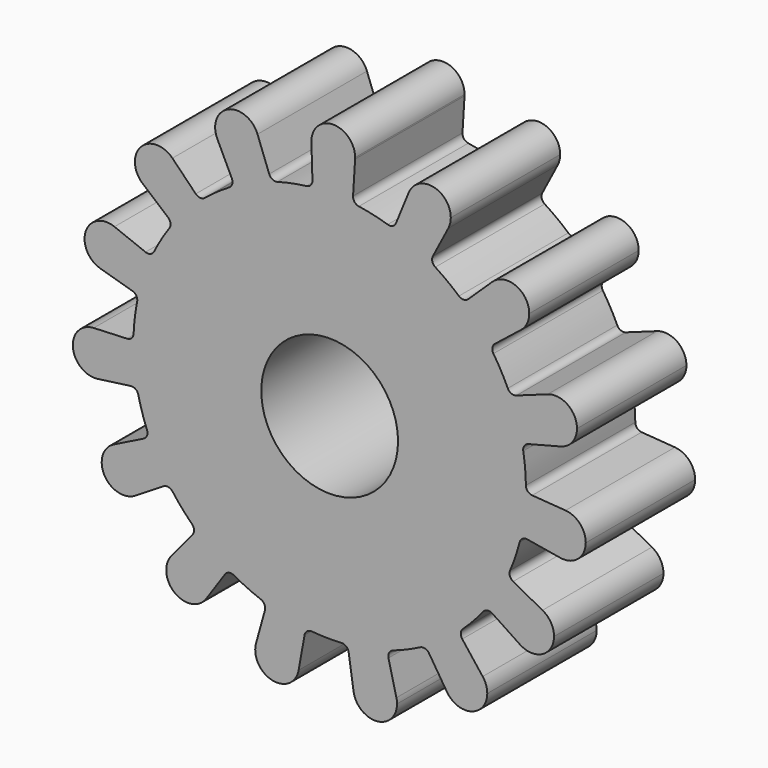
from build123d import *

# Parameters (mm, degrees)
F0_R     = 5
F1_DEPTH = 10


with BuildPart() as f1:
    # F0 (on Front) → F1 (new body)
    with BuildSketch(Plane.XZ):
        with BuildLine():
            ThreePointArc((13.88936, -3.606687), (14.234374, -1.817992), (14.35, 0))
            ThreePointArc((14.35, 0), (14.349647, 0.100694), (14.348587, 0.201382))
            ThreePointArc((14.348587, 0.201382), (14.29266, 1.281551), (14.155533, 2.354439))
            ThreePointArc((14.155533, 2.354439), (13.713882, 4.225157), (13.026177, 6.020068))
            ThreePointArc((13.026177, 6.020068), (12.535741, 6.984104), (11.974086, 7.908461))
            ThreePointArc((11.974086, 7.908461), (10.809728, 9.437811), (9.451422, 10.797829))
            ThreePointArc((9.451422, 10.797829), (8.611278, 11.479041), (7.722211, 12.095038))
            ThreePointArc((7.722211, 12.095038), (6.036474, 13.018582), (4.242431, 13.708548))
            ThreePointArc((4.242431, 13.708548), (3.197847, 13.989148), (2.135096, 14.190274))
            ThreePointArc((2.135096, 14.190274), (0.219459, 14.348322), (-1.700115, 14.248934))
            ThreePointArc((-1.700115, 14.248934), (-2.76852, 14.080405), (-3.821197, 13.831882))
            ThreePointArc((-3.821197, 13.831882), (-5.635502, 13.197106), (-7.348696, 12.32555))
            ThreePointArc((-7.348696, 12.32555), (-8.256186, 11.737031), (-9.116771, 11.081832))
            ThreePointArc((-9.116771, 11.081832), (-10.516034, 9.763991), (-11.72662, 8.270966))
            ThreePointArc((-11.72662, 8.270966), (-12.316282, 7.364218), (-12.835971, 6.415632))
            ThreePointArc((-12.835971, 6.415632), (-13.578248, 4.642593), (-14.076906, 2.786257))
            ThreePointArc((-14.076906, 2.786257), (-14.24678, 1.718065), (-14.335716, 0.640112))
            ThreePointArc((-14.335716, 0.640112), (-14.29266, -1.281551), (-13.993166, -3.18022))
            ThreePointArc((-13.993166, -3.18022), (-13.713882, -4.225157), (-13.356685, -5.24609))
            ThreePointArc((-13.356685, -5.24609), (-12.535741, -6.984104), (-11.489881, -8.596809))
            ThreePointArc((-11.489881, -8.596809), (-10.809728, -9.437811), (-10.068162, -10.225195))
            ThreePointArc((-10.068162, -10.225195), (-8.611278, -11.479041), (-6.999891, -12.526932))
            ThreePointArc((-6.999891, -12.526932), (-6.036474, -13.018582), (-5.038763, -13.436271))
            ThreePointArc((-5.038763, -13.436271), (-3.197847, -13.989148), (-1.299557, -14.291034))
            ThreePointArc((-1.299557, -14.291034), (-0.219459, -14.348322), (0.861885, -14.324093))
            ThreePointArc((0.861885, -14.324093), (2.76852, -14.080405), (4.625483, -13.584087))
            ThreePointArc((4.625483, -13.584087), (5.635502, -13.197106), (6.613505, -12.73515))
            ThreePointArc((6.613505, -12.73515), (8.256186, -11.737031), (9.750735, -10.528327))
            ThreePointArc((9.750735, -10.528327), (10.516034, -9.763991), (11.22159, -8.944184))
            ThreePointArc((11.22159, -8.944184), (12.316282, -7.364218), (13.189996, -5.652124))
            ThreePointArc((13.189996, -5.652124), (13.578248, -4.642593), (13.88936, -3.606687))
        make_face()
        Circle(F0_R, mode=Mode.SUBTRACT)
        with BuildLine():
            ThreePointArc((14.348587, 0.201382), (14.349647, 0.100694), (14.35, 0))
            ThreePointArc((14.35, 0), (14.234374, -1.817992), (13.88936, -3.606687))
            ThreePointArc((13.88936, -3.606687), (14.101323, -3.312804), (14.456129, -3.239262))
            Line((14.456129, -3.239262), (16.860896, -3.643168))
            ThreePointArc((16.860896, -3.643168), (15.53743, -1.873709), (17.243607, -0.469604))
            Line((17.243607, -0.469604), (14.811761, -0.290247))
            ThreePointArc((14.811761, -0.290247), (14.484609, -0.134466), (14.348587, 0.201382))
        make_face()
        with BuildLine():
            ThreePointArc((13.026177, 6.020068), (13.713882, 4.225157), (14.155533, 2.354439))
            ThreePointArc((14.155533, 2.354439), (14.229639, 2.709128), (14.523858, 2.920624))
            Line((14.523858, 2.920624), (16.885005, 3.529745))
            ThreePointArc((16.885005, 3.529745), (14.956254, 4.607924), (15.943824, 6.584602))
            Line((15.943824, 6.584602), (13.649271, 5.759332))
            ThreePointArc((13.649271, 5.759332), (13.287041, 5.768581), (13.026177, 6.020068))
        make_face()
        with BuildLine():
            ThreePointArc((13.413163, -6.289639), (13.177657, -6.014262), (13.189996, -5.652124))
            ThreePointArc((13.189996, -5.652124), (12.316282, -7.364218), (11.22159, -8.944184))
            ThreePointArc((11.22159, -8.944184), (11.534761, -8.761922), (11.888805, -8.839051))
            Line((11.888805, -8.839051), (13.921385, -10.186144))
            ThreePointArc((13.921385, -10.186144), (13.432042, -8.03136), (15.561814, -7.442611))
            Line((15.561814, -7.442611), (13.413163, -6.289639))
        make_face()
        with BuildLine():
            ThreePointArc((18.725921, -2.06527), (18.298162, -0.976302), (17.243607, -0.469604))
            ThreePointArc((17.243607, -0.469604), (15.53743, -1.873709), (16.860896, -3.643168))
            ThreePointArc((16.860896, -3.643168), (18.159352, -3.286752), (18.725921, -2.06527))
        make_face()
        with BuildLine():
            ThreePointArc((9.451422, 10.797829), (10.809728, 9.437811), (11.974086, 7.908461))
            ThreePointArc((11.974086, 7.908461), (11.89752, 8.262627), (12.08028, 8.575508))
            Line((12.08028, 8.575508), (13.989543, 10.092333))
            ThreePointArc((13.989543, 10.092333), (11.789006, 10.292805), (11.887209, 12.500271))
            Line((11.887209, 12.500271), (10.126698, 10.81307))
            ThreePointArc((10.126698, 10.81307), (9.792023, 10.674187), (9.451422, 10.797829))
        make_face()
        with BuildLine():
            ThreePointArc((15.943824, 6.584602), (14.956254, 4.607924), (16.885005, 3.529745))
            ThreePointArc((16.885005, 3.529745), (17.750137, 4.099094), (18.085328, 5.079022))
            ThreePointArc((18.085328, 5.079022), (17.405543, 6.387916), (15.943824, 6.584602))
        make_face()
        with BuildLine():
            ThreePointArc((9.695307, -11.201496), (9.592168, -10.854137), (9.750735, -10.528327))
            ThreePointArc((9.750735, -10.528327), (8.256186, -11.737031), (6.613505, -12.73515))
            ThreePointArc((6.613505, -12.73515), (6.973734, -12.696024), (7.265798, -12.910487))
            Line((7.265798, -12.910487), (8.574741, -14.967843))
            ThreePointArc((8.574741, -14.967843), (9.004133, -12.800316), (11.189241, -13.128723))
            Line((11.189241, -13.128723), (9.695307, -11.201496))
        make_face()
        with BuildLine():
            ThreePointArc((16.405286, -8.852457), (16.17832, -8.031009), (15.561814, -7.442611))
            ThreePointArc((15.561814, -7.442611), (13.432042, -8.03136), (13.921385, -10.186144))
            ThreePointArc((13.921385, -10.186144), (15.562174, -10.26211), (16.405286, -8.852457))
        make_face()
        with BuildLine():
            ThreePointArc((4.242431, 13.708548), (6.036474, 13.018582), (7.722211, 12.095038))
            ThreePointArc((7.722211, 12.095038), (7.508212, 12.387443), (7.547911, 12.747609))
            Line((7.547911, 12.747609), (8.675162, 14.909865))
            ThreePointArc((8.675162, 14.909865), (6.583332, 14.197966), (5.775187, 16.254529))
            Line((5.775187, 16.254529), (4.853127, 13.99713))
            ThreePointArc((4.853127, 13.99713), (4.603875, 13.73413), (4.242431, 13.708548))
        make_face()
        with BuildLine():
            ThreePointArc((11.887209, 12.500271), (11.789006, 10.292805), (13.989543, 10.092333))
            ThreePointArc((13.989543, 10.092333), (14.435181, 10.649559), (14.594272, 11.345104))
            ThreePointArc((14.594272, 11.345104), (13.622244, 12.816719), (11.887209, 12.500271))
        make_face()
        with BuildLine():
            ThreePointArc((4.301045, -14.176513), (4.348106, -13.817234), (4.625483, -13.584087))
            ThreePointArc((4.625483, -13.584087), (2.76852, -14.080405), (0.861885, -14.324093))
            ThreePointArc((0.861885, -14.324093), (1.206885, -14.434868), (1.386468, -14.749583))
            Line((1.386468, -14.749583), (1.745445, -17.161466))
            ThreePointArc((1.745445, -17.161466), (3.019327, -15.355981), (4.881948, -16.54476))
            Line((4.881948, -16.54476), (4.301045, -14.176513))
        make_face()
        with BuildLine():
            ThreePointArc((11.524683, -14.108975), (11.438502, -13.590946), (11.189241, -13.128723))
            ThreePointArc((11.189241, -13.128723), (9.004133, -12.800316), (8.574741, -14.967843))
            ThreePointArc((8.574741, -14.967843), (10.371948, -15.645189), (11.524683, -14.108975))
        make_face()
        with BuildLine():
            ThreePointArc((-1.700115, 14.248934), (0.219459, 14.348322), (2.135096, 14.190274))
            ThreePointArc((2.135096, 14.190274), (1.820666, 14.370357), (1.71044, 14.715532))
            Line((1.71044, 14.715532), (1.860767, 17.149345))
            ThreePointArc((1.860767, 17.149345), (0.239341, 15.64817), (-1.335416, 17.198231))
            Line((-1.335416, 17.198231), (-1.259594, 14.760959))
            ThreePointArc((-1.259594, 14.760959), (-1.380325, 14.419317), (-1.700115, 14.248934))
        make_face()
        with BuildLine():
            ThreePointArc((5.775187, 16.254529), (6.583332, 14.197966), (8.675162, 14.909865))
            ThreePointArc((8.675162, 14.909865), (8.810422, 15.268751), (8.856389, 15.649515))
            ThreePointArc((8.856389, 15.649515), (7.564672, 17.219535), (5.775187, 16.254529))
        make_face()
        with BuildLine():
            ThreePointArc((-1.836907, -14.700281), (-1.647783, -14.391206), (-1.299557, -14.291034))
            ThreePointArc((-1.299557, -14.291034), (-3.197847, -13.989148), (-5.038763, -13.436271))
            ThreePointArc((-5.038763, -13.436271), (-4.768646, -13.677792), (-4.732594, -14.038342))
            Line((-4.732594, -14.038342), (-5.385654, -16.387716))
            ThreePointArc((-5.385654, -16.387716), (-3.627864, -15.230903), (-2.244102, -16.816224))
            ThreePointArc((-2.244102, -16.816224), (-2.250459, -16.958707), (-2.269479, -17.100057))
            Line((-2.269479, -17.100057), (-1.836907, -14.700281))
        make_face()
        with BuildLine():
            ThreePointArc((4.928012, -16.925922), (4.916454, -16.733954), (4.881948, -16.54476))
            ThreePointArc((4.881948, -16.54476), (3.019327, -15.355981), (1.745445, -17.161466))
            ThreePointArc((1.745445, -17.161466), (3.446106, -18.521558), (4.928012, -16.925922))
        make_face()
        with BuildLine():
            ThreePointArc((-7.348696, 12.32555), (-5.635502, 13.197106), (-3.821197, 13.831882))
            ThreePointArc((-3.821197, 13.831882), (-4.181689, 13.868506), (-4.422781, 14.139007))
            Line((-4.422781, 14.139007), (-5.275372, 16.423549))
            ThreePointArc((-5.275372, 16.423549), (-5.199834, 16.148354), (-5.174384, 15.864117))
            ThreePointArc((-5.174384, 15.864117), (-6.417431, 14.304443), (-8.215115, 15.168203))
            Line((-8.215115, 15.168203), (-7.154519, 12.972484))
            ThreePointArc((-7.154519, 12.972484), (-7.125854, 12.611272), (-7.348696, 12.32555))
        make_face()
        with BuildLine():
            ThreePointArc((-1.335416, 17.198231), (0.239341, 15.64817), (1.860767, 17.149345))
            ThreePointArc((1.860767, 17.149345), (1.863049, 17.198641), (1.86381, 17.247983))
            ThreePointArc((1.86381, 17.247983), (0.238931, 18.847789), (-1.335416, 17.198231))
        make_face()
        with BuildLine():
            ThreePointArc((-7.657241, -12.682238), (-7.358755, -12.476807), (-6.999891, -12.526932))
            ThreePointArc((-6.999891, -12.526932), (-8.611278, -11.479041), (-10.068162, -10.225195))
            ThreePointArc((-10.068162, -10.225195), (-9.919634, -10.555702), (-10.033348, -10.899744))
            Line((-10.033348, -10.899744), (-11.585524, -12.780381))
            ThreePointArc((-11.585524, -12.780381), (-9.810417, -12.293128), (-8.751536, -13.798848))
            ThreePointArc((-8.751536, -13.798848), (-8.822342, -14.269554), (-9.028492, -14.6986))
            Line((-9.028492, -14.6986), (-7.657241, -12.682238))
        make_face()
        with BuildLine():
            ThreePointArc((-5.385654, -16.387716), (-4.200657, -18.375989), (-2.269479, -17.100057))
            ThreePointArc((-2.269479, -17.100057), (-2.250459, -16.958707), (-2.244102, -16.816224))
            ThreePointArc((-2.244102, -16.816224), (-3.627864, -15.230903), (-5.385654, -16.387716))
        make_face()
        with BuildLine():
            ThreePointArc((-11.72662, 8.270966), (-10.516034, 9.763991), (-9.116771, 11.081832))
            ThreePointArc((-9.116771, 11.081832), (-9.460993, 10.968664), (-9.791264, 11.117718))
            Line((-9.791264, 11.117718), (-11.499351, 12.857971))
            ThreePointArc((-11.499351, 12.857971), (-11.160179, 12.342595), (-11.041226, 11.737202))
            ThreePointArc((-11.041226, 11.737202), (-11.967798, 10.285825), (-13.674345, 10.515455))
            Line((-13.674345, 10.515455), (-11.812364, 8.940949))
            ThreePointArc((-11.812364, 8.940949), (-11.639258, 8.622625), (-11.72662, 8.270966))
        make_face()
        with BuildLine():
            ThreePointArc((-5.174384, 15.864117), (-5.199834, 16.148354), (-5.275372, 16.423549))
            ThreePointArc((-5.275372, 16.423549), (-7.402733, 17.335572), (-8.215115, 15.168203))
            ThreePointArc((-8.215115, 15.168203), (-6.417431, 14.304443), (-5.174384, 15.864117))
        make_face()
        with BuildLine():
            ThreePointArc((-12.153569, -8.47132), (-11.797332, -8.405055), (-11.489881, -8.596809))
            ThreePointArc((-11.489881, -8.596809), (-12.535741, -6.984104), (-13.356685, -5.24609))
            ThreePointArc((-13.356685, -5.24609), (-13.355427, -5.608435), (-13.599245, -5.876481))
            Line((-13.599245, -5.876481), (-15.782152, -6.963202))
            ThreePointArc((-15.782152, -6.963202), (-14.226745, -7.035215), (-13.469096, -8.395525))
            ThreePointArc((-13.469096, -8.395525), (-13.671184, -9.173883), (-14.226397, -9.75562))
            Line((-14.226397, -9.75562), (-12.153569, -8.47132))
        make_face()
        with BuildLine():
            ThreePointArc((-11.585524, -12.780381), (-11.311679, -15.078741), (-9.028492, -14.6986))
            ThreePointArc((-9.028492, -14.6986), (-8.822342, -14.269554), (-8.751536, -13.798848))
            ThreePointArc((-8.751536, -13.798848), (-9.810417, -12.293128), (-11.585524, -12.780381))
        make_face()
        with BuildLine():
            ThreePointArc((-14.076906, 2.786257), (-13.578248, 4.642593), (-12.835971, 6.415632))
            ThreePointArc((-12.835971, 6.415632), (-13.104405, 6.172241), (-13.466748, 6.174075))
            Line((-13.466748, 6.174075), (-15.734988, 7.069133))
            ThreePointArc((-15.734988, 7.069133), (-14.99947, 6.480908), (-14.722285, 5.580818))
            ThreePointArc((-14.722285, 5.580818), (-15.361815, 4.30117), (-16.769156, 4.044489))
            Line((-16.769156, 4.044489), (-14.427743, 3.363442))
            ThreePointArc((-14.427743, 3.363442), (-14.140129, 3.143047), (-14.076906, 2.786257))
        make_face()
        with BuildLine():
            ThreePointArc((-11.041226, 11.737202), (-11.160179, 12.342595), (-11.499351, 12.857971))
            ThreePointArc((-11.499351, 12.857971), (-13.813745, 12.82587), (-13.674345, 10.515455))
            ThreePointArc((-13.674345, 10.515455), (-11.967798, 10.285825), (-11.041226, 11.737202))
        make_face()
        with BuildLine():
            ThreePointArc((-14.548434, -2.795634), (-14.196043, -2.879992), (-13.993166, -3.18022))
            ThreePointArc((-13.993166, -3.18022), (-14.29266, -1.281551), (-14.335716, 0.640112))
            ThreePointArc((-14.335716, 0.640112), (-14.481946, 0.308581), (-14.813709, 0.162878))
            Line((-14.813709, 0.162878), (-17.249903, 0.057978))
            ThreePointArc((-17.249903, 0.057978), (-16.074304, -0.385091), (-15.581072, -1.54054))
            ThreePointArc((-15.581072, -1.54054), (-15.975537, -2.592532), (-16.964429, -3.125806))
            Line((-16.964429, -3.125806), (-14.548434, -2.795634))
        make_face()
        with BuildLine():
            ThreePointArc((-15.782152, -6.963202), (-16.466809, -9.174241), (-14.226397, -9.75562))
            ThreePointArc((-14.226397, -9.75562), (-13.671184, -9.173883), (-13.469096, -8.395525))
            ThreePointArc((-13.469096, -8.395525), (-14.226745, -7.035215), (-15.782152, -6.963202))
        make_face()
        with BuildLine():
            ThreePointArc((-14.722285, 5.580818), (-14.99947, 6.480908), (-15.734988, 7.069133))
            ThreePointArc((-15.734988, 7.069133), (-17.836236, 6.098459), (-16.769156, 4.044489))
            ThreePointArc((-16.769156, 4.044489), (-15.361815, 4.30117), (-14.722285, 5.580818))
        make_face()
        with BuildLine():
            ThreePointArc((-17.249903, 0.057978), (-18.774679, -1.683431), (-16.964429, -3.125806))
            ThreePointArc((-16.964429, -3.125806), (-15.975537, -2.592532), (-15.581072, -1.54054))
            ThreePointArc((-15.581072, -1.54054), (-16.074304, -0.385091), (-17.249903, 0.057978))
        make_face()
    extrude(amount=F1_DEPTH)


solid = f1.part
